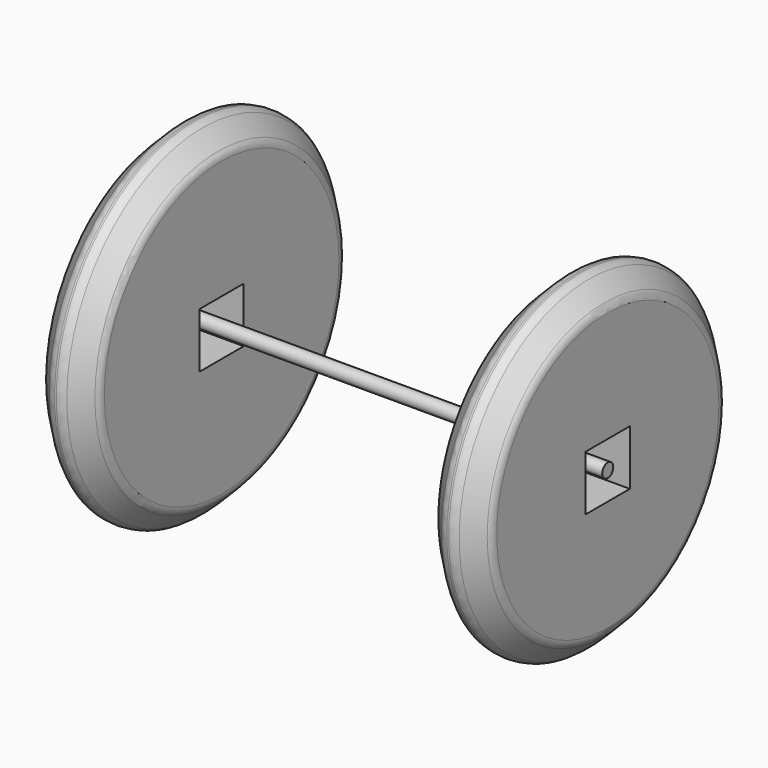
from build123d import *

# Parameters (mm, degrees)
F2_R      = 3.175
F3_DEPTH  = 101.6
F5_R      = 76.2
F5_W      = 25.4
F5_H      = 25.4
F6_DEPTH  = 25.4
F4_R      = 79.7814
F4_W      = 25.4
F4_H      = 25.4
F7_DEPTH  = 25.4
F8_SIZE   = 10.16
F8_2_SIZE = 10.16
F9_R      = 5.08
F9_2_R    = 5.08


with BuildPart() as f3:
    # F2 (on Right) → F3 (new body, symmetric)
    with BuildSketch(Plane.YZ):
        Circle(F2_R)
    extrude(amount=F3_DEPTH, both=True)


with BuildPart() as f6:
    # F5 (on offset) → F6 (new body)
    with BuildSketch(Plane.YZ.offset(76.2)):
        Circle(F5_R)
        Rectangle(F5_W, F5_H, mode=Mode.SUBTRACT)
    extrude(amount=F6_DEPTH)

    # F8#2
    f8_2_edges = [f6.edges().sort_by_distance(p)[0] for p in [
        (88.9, 76.2, 0),
        (76.2, -76.2, 0),
        (101.6, -76.2, 0),
    ]]
    chamfer(f8_2_edges, length=F8_2_SIZE)

    # F9#2
    f9_2_edges = [f6.edges().sort_by_distance(p)[0] for p in [
        (86.36, -76.2, 0),
        (91.44, -76.2, 0),
        (101.6, -66.04, 0),
        (81.28, 71.12, 0),
        (76.2, -66.04, 0),
    ]]
    fillet(f9_2_edges, radius=F9_2_R)


with BuildPart() as f7:
    # F4 (on offset) → F7 (new body)
    with BuildSketch(Plane.YZ.offset(-76.2)):
        Circle(F4_R)
        Rectangle(F4_W, F4_H, mode=Mode.SUBTRACT)
    extrude(amount=-F7_DEPTH)

    # F8
    f8_edges = [f7.edges().sort_by_distance(p)[0] for p in [
        (-88.9, 79.7814, 0),
        (-76.2, -79.7814, 0),
        (-101.6, -79.7814, 0),
    ]]
    chamfer(f8_edges, length=F8_SIZE)

    # F9
    f9_edges = [f7.edges().sort_by_distance(p)[0] for p in [
        (-88.9, 79.7814, 0),
        (-86.36, -79.7814, 0),
        (-91.44, -79.7814, 0),
        (-101.6, -69.6214, 0),
        (-76.2, -69.6214, 0),
    ]]
    fillet(f9_edges, radius=F9_R)


solid = Compound([f3.part, f6.part, f7.part])
